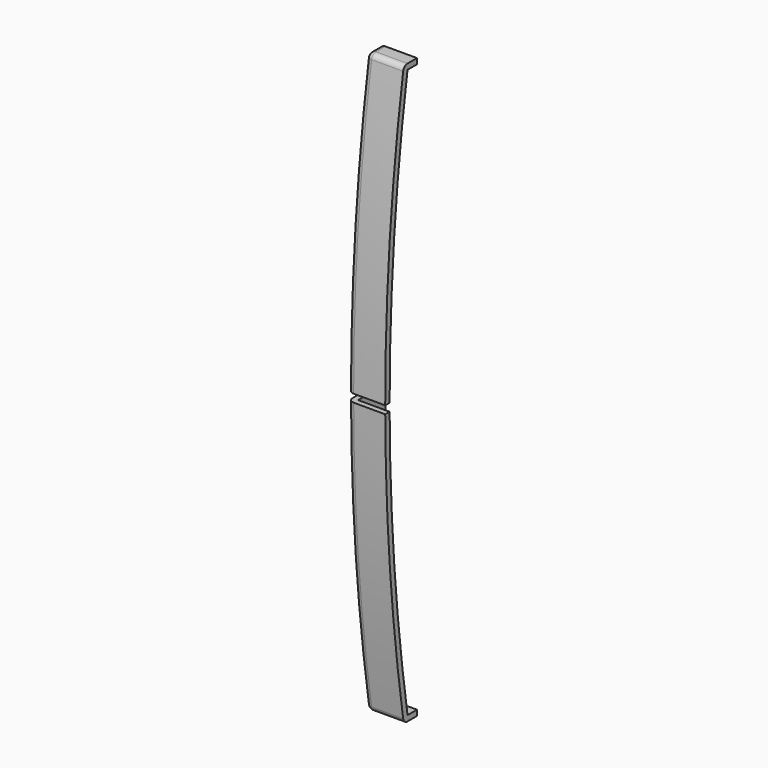
from build123d import *

# Parameters (mm, degrees)
RECTANGLE_W               = 1217.787964
RECTANGLE_H               = 10
EXTRUDE008_DEPTH          = 150
EXTRUDE006_DEPTH          = 40
THICKNESS_T               = 7
THICKNESS_PLACEMENT_ANGLE = 180


with BuildPart() as extrude008:
    # Rectangle → Extrude008 (new body)
    with BuildSketch(Plane.XZ):
        with Locations((608.893982, 5)):
            Rectangle(RECTANGLE_W, RECTANGLE_H)
    extrude(amount=EXTRUDE008_DEPTH)


with BuildPart() as extrude008_1:
    # Extrude008 placement: moved
    add(extrude008.part.moved(Location((0, 0, 1250))))


with BuildPart() as cut001:
    # Sketch006 → Extrude006 (new body)
    with BuildSketch(Plane.YZ):
        with BuildLine():
            Line((0, 0), (0, 720))
            Line((0, 720), (15, 720))
            ThreePointArc((15, 0), (43.348618, 360), (15, 720))
            Line((0, 0), (15, 0))
        make_face()
    extrude(amount=-EXTRUDE006_DEPTH)

    # Thickness
    thickness_openings = [cut001.faces().sort_by_distance(p)[0] for p in [
        (-20, 0, 360),
        (-40, 18.01229, 360),
    ]]
    offset(amount=THICKNESS_T, openings=thickness_openings)


with BuildPart() as cut001_1:
    # Thickness placement: moved
    add(cut001.part.moved(Location((50, -50, 900))).rotate(Axis((50, -50, 900), (0, 0, -1)), THICKNESS_PLACEMENT_ANGLE))

    # Cut001: cut Extrude008
    add(extrude008_1.part, mode=Mode.SUBTRACT)


solid = cut001_1.part
